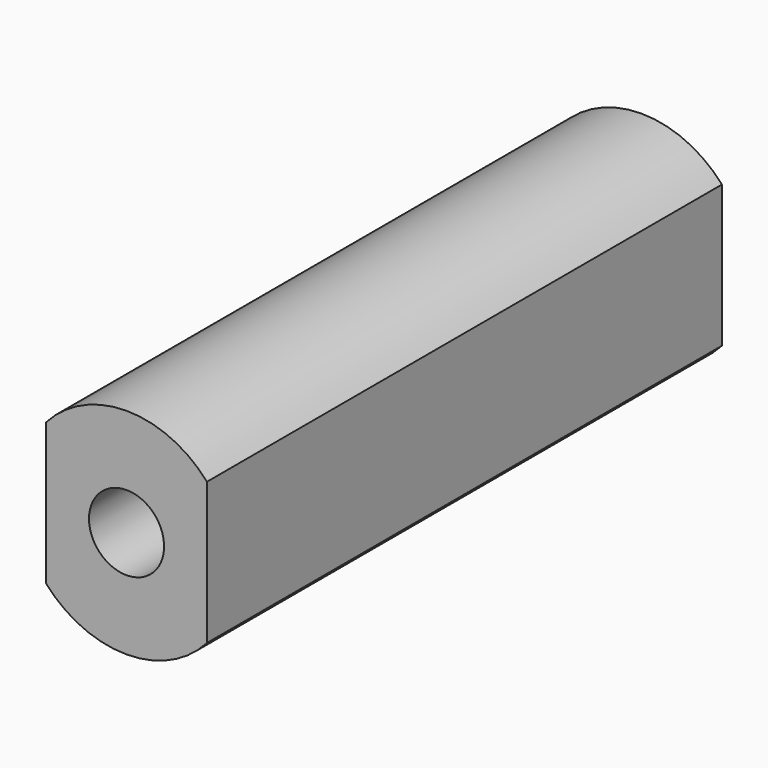
from build123d import *

# Parameters (mm, degrees)
F0_W     = 38.1
F0_H     = 50.8
F1_DEPTH = 152.4
F2_R     = 8.89
F3_DEPTH = 152.401
F5_W     = 152.4
F5_H     = 28.410043


with BuildPart() as f1:
    # F0 (on Front) → F1 (new body)
    with BuildSketch(Plane.XZ):
        with Locations((19.05, 25.4)):
            Rectangle(F0_W, F0_H)
    extrude(amount=F1_DEPTH)

    # F2 (on face) → F3 (cut, through all)
    with BuildSketch(Plane(origin=(0, 0, 0), x_dir=(-1, 0, 0), z_dir=(0, 1, 0))):
        with Locations((-19.05, 25.4)):
            Circle(F2_R)
    extrude(amount=-F3_DEPTH, mode=Mode.SUBTRACT)

    # F5 (on offset) → F6 (revolve, cut)
    with BuildSketch(Plane.YZ.offset(19.05)):
        with Locations((-76.2, 65.005021)):
            Rectangle(F5_W, F5_H)
    revolve(axis=Axis((19.05, -76.2, 25.4), (0, 1, 0)), mode=Mode.SUBTRACT)


solid = f1.part
